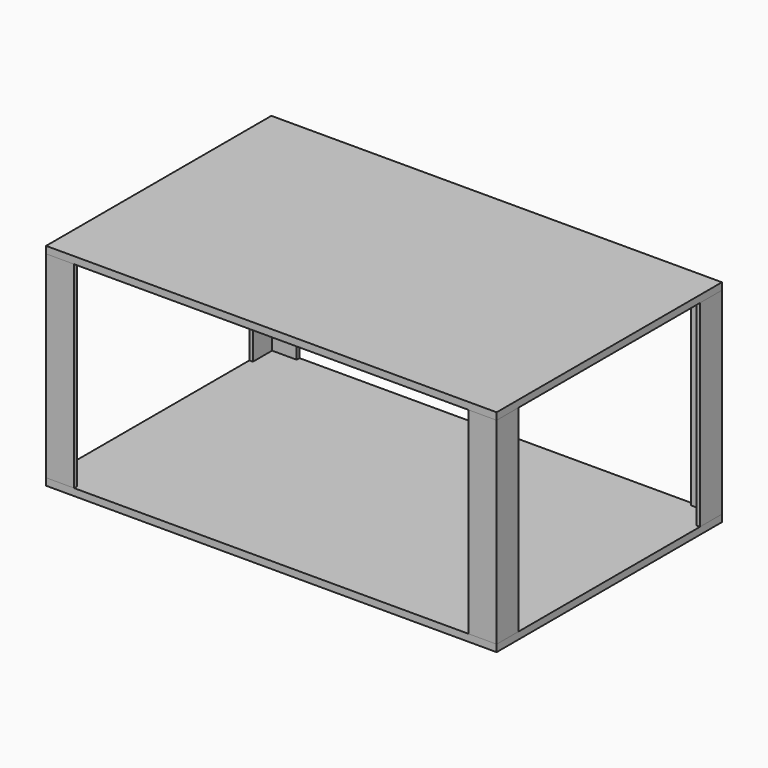
from build123d import *

# Parameters (mm, degrees)
F0_W     = 406.4
F0_H     = 254
F1_DEPTH = 6.35
F3_DEPTH = 177.8
F7_W     = 406.4
F7_H     = 254
F8_DEPTH = 6.35


with BuildPart() as f1:
    # F0 (on Top) → F1 (new body)
    with BuildSketch(Plane.XY):
        Rectangle(F0_W, F0_H)
    extrude(amount=F1_DEPTH)


with BuildPart() as f3:
    # F2 (on face) → F3 (new body)
    with BuildSketch(Plane.XY.offset(6.35)):
        Polygon((25.4, 0), (0, 0), (0, -24.765), (3.175, -24.765), (3.175, -3.175), (25.4, -3.175), align=None)
    extrude(amount=F3_DEPTH)


with BuildPart() as f3_1:
    # F4: moved
    add(f3.part.moved(Location((-203.2, 127, 0))))


with BuildPart() as f5_1:
    # F5: instance of F3
    add(f3_1.part.mirror(Plane.YZ))


with BuildPart() as f6_1:
    # F6: instance of F3
    add(f3_1.part.mirror(Plane.XZ))


with BuildPart() as f6_2:
    # F6: instance of F5_1
    add(f5_1.part.mirror(Plane.XZ))


with BuildPart() as f8:
    # F7 (on face) → F8 (new body)
    with BuildSketch(Plane.XY.offset(184.15)):
        Rectangle(F7_W, F7_H)
    extrude(amount=F8_DEPTH)


solid = Compound([f1.part, f3_1.part, f5_1.part, f6_1.part, f6_2.part, f8.part])
